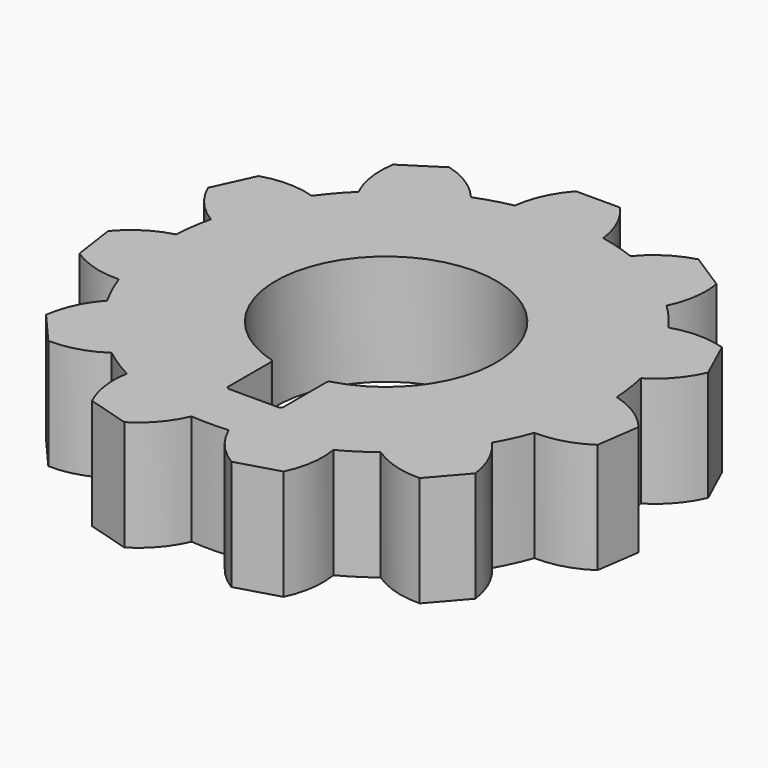
from build123d import *

# Parameters (mm, degrees)
F1_DEPTH = 6.35


with BuildPart() as f1:
    # F0 (on Top) → F1 (new body)
    with BuildSketch(Plane.XY):
        with BuildLine():
            Line((1.27, 15.24), (-1.27, 15.24))
            ThreePointArc((-1.27, 15.24), (-2.121422, 13.939986), (-2.54, 12.443408))
            ThreePointArc((-2.54, 12.443408), (-3.578003, 12.185561), (-4.59063, 11.841289))
            ThreePointArc((-4.59063, 11.841289), (-5.751872, 12.87399), (-7.170974, 13.507318))
            Line((-7.170974, 13.507318), (-9.307758, 12.13409))
            ThreePointArc((-9.307758, 12.13409), (-9.321179, 10.580136), (-8.864198, 9.094833))
            ThreePointArc((-8.864198, 9.094833), (-9.59802, 8.316731), (-10.263768, 7.479644))
            ThreePointArc((-10.263768, 7.479644), (-11.798987, 7.720592), (-13.335215, 7.486157))
            Line((-13.335215, 7.486157), (-14.390369, 5.175692))
            ThreePointArc((-14.390369, 5.175692), (-13.561528, 3.861167), (-12.374076, 2.858713))
            ThreePointArc((-12.374076, 2.858713), (-12.570732, 1.807398), (-12.678232, 0.743265))
            ThreePointArc((-12.678232, 0.743265), (-14.100007, 0.115962), (-15.265619, -0.911805))
            Line((-15.265619, -0.911805), (-14.904139, -3.425951))
            ThreePointArc((-14.904139, -3.425951), (-13.496187, -4.083695), (-11.955272, -4.285028))
            ThreePointArc((-11.955272, -4.285028), (-11.552326, -5.275771), (-11.067446, -6.229095))
            ThreePointArc((-11.067446, -6.229095), (-11.924374, -7.525486), (-12.349297, -9.020276))
            Line((-12.349297, -9.020276), (-10.68595, -10.93988))
            ThreePointArc((-10.68595, -10.93988), (-9.145903, -10.732013), (-7.740754, -10.068303))
            ThreePointArc((-7.740754, -10.068303), (-6.866138, -10.68392), (-5.942825, -11.223762))
            ThreePointArc((-5.942825, -11.223762), (-5.962837, -12.777645), (-5.51216, -14.264873))
            Line((-5.51216, -14.264873), (-3.075048, -14.980473))
            ThreePointArc((-3.075048, -14.980473), (-1.891859, -13.972992), (-1.068601, -12.654963))
            ThreePointArc((-1.068601, -12.654963), (0, -12.7), (1.068601, -12.654963))
            ThreePointArc((1.068601, -12.654963), (1.891859, -13.972992), (3.075048, -14.980473))
            Line((3.075048, -14.980473), (5.51216, -14.264873))
            ThreePointArc((5.51216, -14.264873), (5.962837, -12.777645), (5.942825, -11.223762))
            ThreePointArc((5.942825, -11.223762), (6.866138, -10.68392), (7.740754, -10.068303))
            ThreePointArc((7.740754, -10.068303), (9.145903, -10.732013), (10.68595, -10.93988))
            Line((10.68595, -10.93988), (12.349297, -9.020276))
            ThreePointArc((12.349297, -9.020276), (11.924374, -7.525486), (11.067446, -6.229095))
            ThreePointArc((11.067446, -6.229095), (11.552326, -5.275771), (11.955272, -4.285028))
            ThreePointArc((11.955272, -4.285028), (13.496187, -4.083695), (14.904139, -3.425951))
            Line((14.904139, -3.425951), (15.265619, -0.911805))
            ThreePointArc((15.265619, -0.911805), (14.100007, 0.115962), (12.678232, 0.743265))
            ThreePointArc((12.678232, 0.743265), (12.570732, 1.807398), (12.374076, 2.858713))
            ThreePointArc((12.374076, 2.858713), (13.561528, 3.861167), (14.390369, 5.175692))
            Line((14.390369, 5.175692), (13.335215, 7.486157))
            ThreePointArc((13.335215, 7.486157), (11.798987, 7.720592), (10.263768, 7.479644))
            ThreePointArc((10.263768, 7.479644), (9.59802, 8.316731), (8.864198, 9.094833))
            ThreePointArc((8.864198, 9.094833), (9.321179, 10.580136), (9.307758, 12.13409))
            Line((9.307758, 12.13409), (7.170974, 13.507318))
            ThreePointArc((7.170974, 13.507318), (5.751872, 12.87399), (4.59063, 11.841289))
            ThreePointArc((4.59063, 11.841289), (3.578003, 12.185561), (2.54, 12.443408))
            ThreePointArc((2.54, 12.443408), (2.121422, 13.939986), (1.27, 15.24))
        make_face()
        with BuildLine():
            ThreePointArc((-1.714432, -6.114182), (0, 6.35), (1.714432, -6.114182))
            ThreePointArc((1.714432, -6.114182), (1.62282, -6.176553), (1.5875, -6.281602))
            Line((1.5875, -6.281602), (1.5875, -9.351123))
            ThreePointArc((1.5875, -9.351123), (1.536573, -9.474073), (1.413623, -9.525))
            Line((1.413623, -9.525), (-1.413623, -9.525))
            ThreePointArc((-1.413623, -9.525), (-1.536573, -9.474073), (-1.5875, -9.351123))
            Line((-1.5875, -9.351123), (-1.5875, -6.281602))
            ThreePointArc((-1.5875, -6.281602), (-1.62282, -6.176553), (-1.714432, -6.114182))
        make_face(mode=Mode.SUBTRACT)
    extrude(amount=F1_DEPTH)


solid = f1.part
